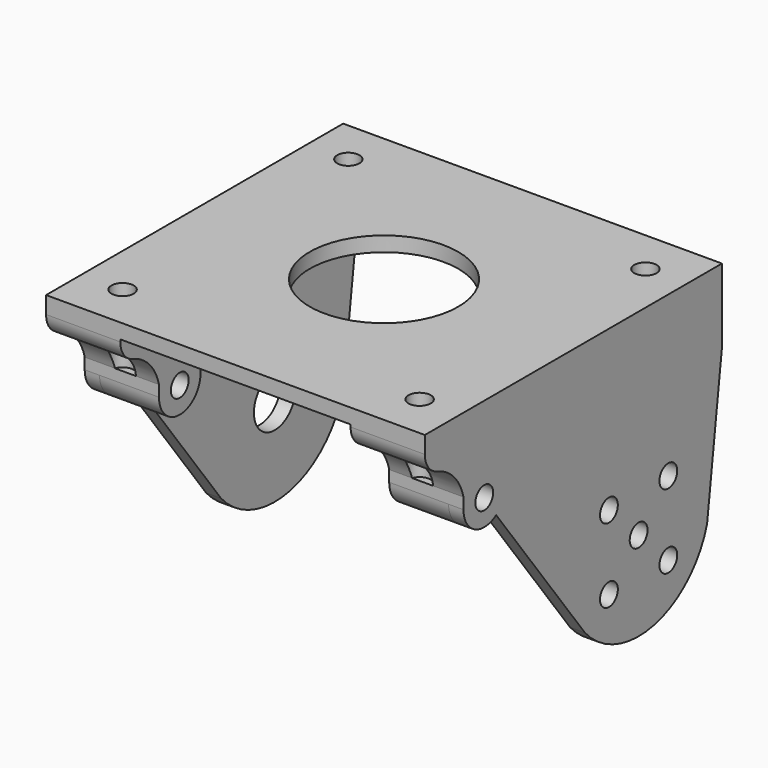
from build123d import *

# Parameters (mm, degrees)
SKETCH_W        = 47
SKETCH_H        = 50
SKETCH_R        = 10
SKETCH_R_2      = 1.5
PAD_DEPTH       = 2
SKETCH001_R     = 1.5
PAD001_DEPTH    = 2
SKETCH002_R     = 1.5
PAD002_DEPTH    = 8
SKETCH004_R     = 1.5
POCKET_DEPTH    = 8
PAD003_DEPTH    = 8
SKETCH005_R     = 1.5
POCKET001_DEPTH = 4
SKETCH006_R     = 1.5
SKETCH006_R_2   = 3.5
PAD004_DEPTH    = 2
SKETCH007_R     = 1.5
PAD005_DEPTH    = 8
SKETCH008_R     = 1.5
POCKET002_DEPTH = 8
PAD006_DEPTH    = 8
SKETCH010_R     = 1.5
POCKET003_DEPTH = 4
FILLET_R        = 3


with BuildPart() as part:
    # Sketch → Pad (new body)
    with BuildSketch(Plane.XY):
        Rectangle(SKETCH_W, SKETCH_H)
        Circle(SKETCH_R, mode=Mode.SUBTRACT)
        with Locations((-20, -19)):
            Circle(SKETCH_R_2, mode=Mode.SUBTRACT)
        with Locations((20, -19)):
            Circle(SKETCH_R_2, mode=Mode.SUBTRACT)
        with Locations((-20, 19)):
            Circle(SKETCH_R_2, mode=Mode.SUBTRACT)
        with Locations((20, 19)):
            Circle(SKETCH_R_2, mode=Mode.SUBTRACT)
    extrude(amount=PAD_DEPTH)

    # Sketch001 (on Face2 of Pad) → Pad001 (join)
    with BuildSketch(Plane.YZ.offset(23.5)):
        with BuildLine():
            Line((-25, 2), (25, 2))
            Line((25, -8), (25, 2))
            Line((22.505468, -27.843823), (25, -8))
            ThreePointArc((1.953944, -32.406741), (13.581707, -36.214738), (22.505468, -27.843823))
            Line((-13, -12.372281), (1.953944, -32.406741))
            ThreePointArc((-18.5, -9.5), (-16.620185, -12.602418), (-13, -12.372281))
            Line((-18.5, -8), (-18.5, -9.5))
            ThreePointArc((-18.5, -8), (-20.847064, -4.279548), (-25, -2.829168))
            Line((-25, 2), (-25, -2.829168))
        make_face()
        with Locations((-15, -9.5)):
            Circle(SKETCH001_R, mode=Mode.SUBTRACT)
        with Locations((15.980762, -19.5)):
            Circle(SKETCH001_R, mode=Mode.SUBTRACT)
        with Locations((5.980762, -19.5)):
            Circle(SKETCH001_R, mode=Mode.SUBTRACT)
        with Locations((10.980762, -24.5)):
            Circle(SKETCH001_R, mode=Mode.SUBTRACT)
        with Locations((15.980762, -29.5)):
            Circle(SKETCH001_R, mode=Mode.SUBTRACT)
        with Locations((5.980762, -29.5)):
            Circle(SKETCH001_R, mode=Mode.SUBTRACT)
    extrude(amount=PAD001_DEPTH)

    # Sketch002 (on Face9 of Pad001) → Pad002 (join)
    with BuildSketch(Plane(origin=(23.5, 0, 0), x_dir=(0, -1, 0), z_dir=(-1, 0, 0))):
        with BuildLine():
            Line((18.5, -8), (18.5, -9.5))
            ThreePointArc((11.5, -9.5), (15, -13), (18.5, -9.5))
            Line((11.5, -9.5), (11.5, 0))
            Line((25, 0), (11.5, 0))
            Line((25, 0), (25, -2.829168))
            ThreePointArc((25, -2.829168), (20.847064, -4.279548), (18.5, -8))
        make_face()
        with Locations((15, -9.5)):
            Circle(SKETCH002_R, mode=Mode.SUBTRACT)
    extrude(amount=PAD002_DEPTH)

    # Sketch004 (on Face35 of Pad002) → Pocket (cut)
    with BuildSketch(Plane.XY):
        with Locations((20, -19)):
            Circle(SKETCH004_R)
    extrude(amount=-POCKET_DEPTH, mode=Mode.SUBTRACT)

    # Sketch003 (on Face9 of Pad002) → Pad003 (join)
    with BuildSketch(Plane(origin=(23.5, 0, 0), x_dir=(0, -1, 0), z_dir=(-1, 0, 0))):
        with BuildLine():
            Line((-25, 0), (-15.5, 0))
            Line((-15.5, 0), (-15.5, -2))
            ThreePointArc((-17.5, -4), (-16.085786, -3.414214), (-15.5, -2))
            Line((-17.5, -4), (-22.5, -4))
            ThreePointArc((-25, -1.5), (-24.267767, -3.267767), (-22.5, -4))
            Line((-25, 0), (-25, -1.5))
        make_face()
    extrude(amount=PAD003_DEPTH)

    # Sketch005 (on Face41 of Pad003) → Pocket001 (cut)
    with BuildSketch(Plane.XY):
        with Locations((20, 19)):
            Circle(SKETCH005_R)
    extrude(amount=-POCKET001_DEPTH, mode=Mode.SUBTRACT)

    # Sketch006 (on Face2 of Pocket001) → Pad004 (join)
    with BuildSketch(Plane(origin=(-23.5, 0, 0), x_dir=(0, -1, 0), z_dir=(-1, 0, 0))):
        with BuildLine():
            Line((25, 2), (-25, 2))
            Line((-25, 2), (-25, -8))
            Line((-25, -8), (-22.505468, -27.843823))
            ThreePointArc((-22.505468, -27.843823), (-13.581707, -36.214738), (-1.953944, -32.406741))
            Line((-1.953944, -32.406741), (13, -12.372281))
            ThreePointArc((13, -12.372281), (16.620185, -12.602418), (18.5, -9.5))
            Line((18.5, -9.5), (18.5, -8))
            ThreePointArc((25, -2.829168), (20.847064, -4.279548), (18.5, -8))
            Line((25, -2.829168), (25, 2))
        make_face()
        with Locations((15, -9.5)):
            Circle(SKETCH006_R, mode=Mode.SUBTRACT)
        with Locations((-10.980762, -24.5)):
            Circle(SKETCH006_R_2, mode=Mode.SUBTRACT)
    extrude(amount=PAD004_DEPTH)

    # Sketch007 (on Face9 of Pad004) → Pad005 (join)
    with BuildSketch(Plane.YZ.offset(-23.5)):
        with BuildLine():
            Line((-11.5, 0), (-25, 0))
            Line((-25, 0), (-25, -2.829168))
            ThreePointArc((-18.5, -8), (-20.847064, -4.279548), (-25, -2.829168))
            Line((-18.5, -8), (-18.5, -9.5))
            ThreePointArc((-18.5, -9.5), (-15, -13), (-11.5, -9.5))
            Line((-11.5, 0), (-11.5, -9.5))
        make_face()
        with Locations((-15, -9.5)):
            Circle(SKETCH007_R, mode=Mode.SUBTRACT)
    extrude(amount=PAD005_DEPTH)

    # Sketch008 (on Face62 of Pad005) → Pocket002 (cut)
    with BuildSketch(Plane.XY):
        with Locations((-20, -19)):
            Circle(SKETCH008_R)
    extrude(amount=-POCKET002_DEPTH, mode=Mode.SUBTRACT)

    # Sketch009 (on Face9 of Pocket002) → Pad006 (join)
    with BuildSketch(Plane.YZ.offset(-23.5)):
        with BuildLine():
            Line((25, 0), (15.5, 0))
            Line((15.5, 0), (15.5, -2))
            ThreePointArc((15.5, -2), (16.085786, -3.414214), (17.5, -4))
            Line((17.5, -4), (22.5, -4))
            ThreePointArc((22.5, -4), (24.267767, -3.267767), (25, -1.5))
            Line((25, -1.5), (25, 0))
        make_face()
    extrude(amount=PAD006_DEPTH)

    # Sketch010 (on Face67 of Pad006) → Pocket003 (cut)
    with BuildSketch(Plane.XY):
        with Locations((-20, 19)):
            Circle(SKETCH010_R)
    extrude(amount=-POCKET003_DEPTH, mode=Mode.SUBTRACT)

    # Fillet
    fillet_edges = [part.edges().sort_by_distance(p)[0] for p in [
        (-19.5, -25, -2.829168),
        (-24.5, -25, -2.829168),
        (19.5, -25, -2.829168),
        (24.5, -25, -2.829168),
    ]]
    fillet(fillet_edges, radius=FILLET_R)


solid = part.part
